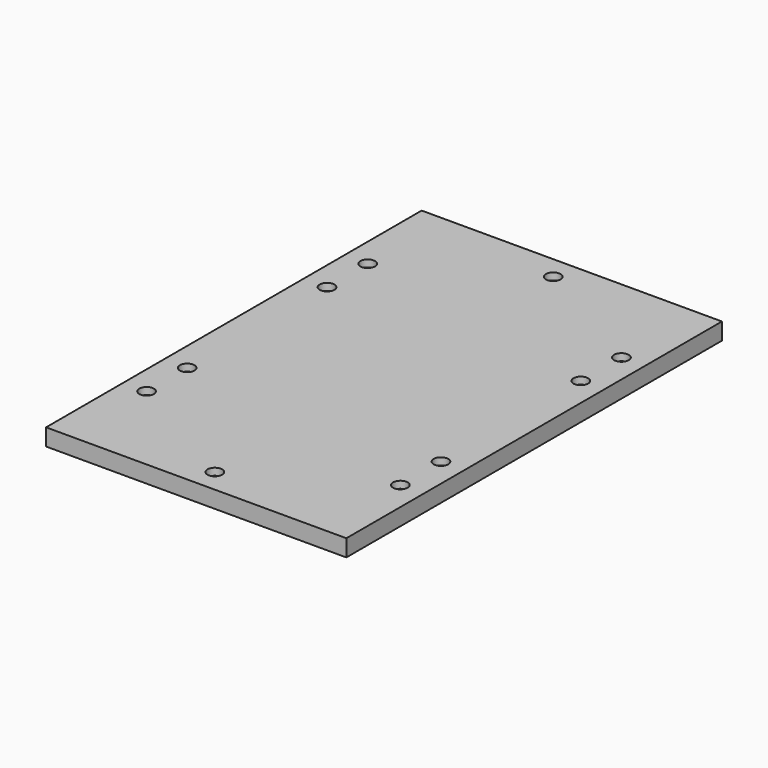
from build123d import *

# Parameters (mm, degrees)
SKETCH_W        = 213
SKETCH_H        = 333
PAD_DEPTH       = 12
SKETCH001_R     = 5.2
POCKET_DEPTH    = 5
SKETCH002_R     = 3.2
POCKET001_DEPTH = 7


with BuildPart() as part:
    # Sketch → Pad (new body)
    with BuildSketch(Plane.XY):
        with Locations((106.5, 166.5)):
            Rectangle(SKETCH_W, SKETCH_H)
    extrude(amount=PAD_DEPTH)

    # Sketch001 (on Face6 of Pad) → Pocket (cut)
    with BuildSketch(Plane.XY.offset(12)):
        with Locations((16.5, 264.5)):
            Circle(SKETCH001_R)
        with Locations((16.5, 228.5)):
            Circle(SKETCH001_R)
        with Locations((16.5, 104.5)):
            Circle(SKETCH001_R)
        with Locations((16.5, 68.5)):
            Circle(SKETCH001_R)
        with Locations((196.5, 264.5)):
            Circle(SKETCH001_R)
        with Locations((196.5, 228.5)):
            Circle(SKETCH001_R)
        with Locations((196.5, 104.5)):
            Circle(SKETCH001_R)
        with Locations((196.5, 68.5)):
            Circle(SKETCH001_R)
        with Locations((106.5, 316.5)):
            Circle(SKETCH001_R)
        with Locations((106.5, 16.5)):
            Circle(SKETCH001_R)
    extrude(amount=-POCKET_DEPTH, mode=Mode.SUBTRACT)

    # Sketch002 (on Face23 of Pocket) → Pocket001 (cut)
    with BuildSketch(Plane.XY.offset(7)):
        with Locations((106.5, 316.5)):
            Circle(SKETCH002_R)
        with Locations((16.5, 264.5)):
            Circle(SKETCH002_R)
        with Locations((16.5, 228.5)):
            Circle(SKETCH002_R)
        with Locations((16.5, 104.5)):
            Circle(SKETCH002_R)
        with Locations((16.5, 68.5)):
            Circle(SKETCH002_R)
        with Locations((106.5, 16.5)):
            Circle(SKETCH002_R)
        with Locations((196.5, 68.5)):
            Circle(SKETCH002_R)
        with Locations((196.5, 104.5)):
            Circle(SKETCH002_R)
        with Locations((196.5, 228.5)):
            Circle(SKETCH002_R)
        with Locations((196.5, 264.5)):
            Circle(SKETCH002_R)
    extrude(amount=-POCKET001_DEPTH, mode=Mode.SUBTRACT)


solid = part.part
